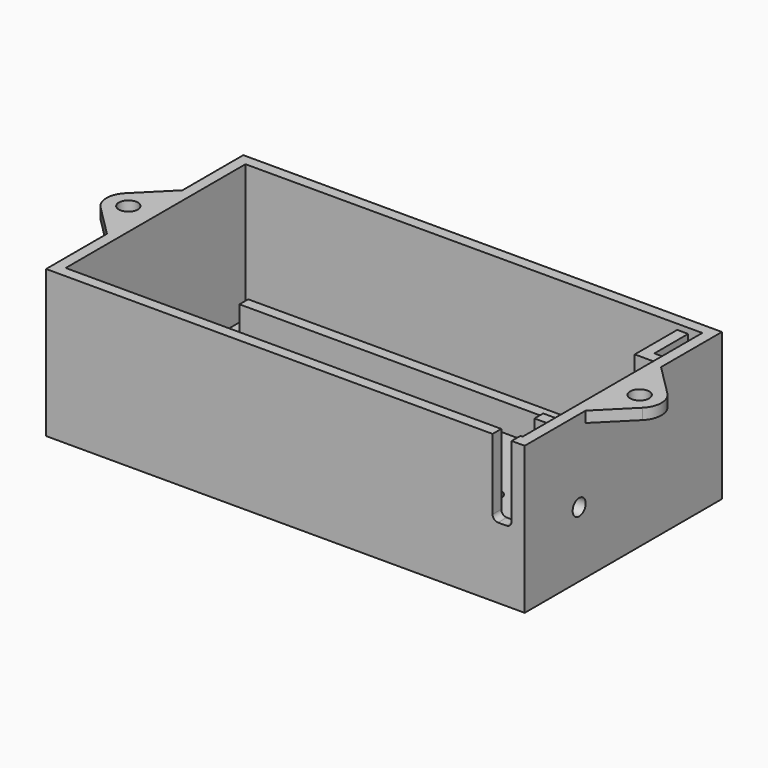
from build123d import *

# Parameters (mm, degrees)
SKETCH006_W          = 87.85
SKETCH006_H          = 45.25
PAD_DEPTH            = 2
SKETCH007_W          = 74.25
SKETCH007_H          = 2
PAD001_DEPTH         = 5
SKETCH008_W          = 87.85
SKETCH008_H          = 45.25
SKETCH008_W_2        = 2.6
SKETCH008_H_2        = 7.75
PAD002_DEPTH         = 25
SKETCH009_W          = 4.6
SKETCH009_H          = 2
PAD003_DEPTH         = 6
SKETCH010_W          = 3.4
SKETCH010_H          = 2
PAD004_DEPTH         = 18
SKETCH011_W          = 3.4
SKETCH011_H          = 2
PAD005_DEPTH         = 1.5
SKETCH013_W          = 4.6
SKETCH013_H          = 9.75
POCKET001_DEPTH      = 1
SKETCH016_R          = 2
POCKET003_DEPTH      = 2
POCKET003_DEPTH_BACK = 5
POCKET004_DEPTH      = 2
SKETCH044_R          = 1.75
PAD031_DEPTH         = 2
SKETCH070_R          = 1.95
POCKET_DEPTH         = 2
SKETCH086_R          = 1.5
POCKET019_DEPTH      = 2


with BuildPart() as part:
    # Sketch006 → Pad (new body)
    with BuildSketch(Plane.XY):
        with Locations((2.3, 0)):
            Rectangle(SKETCH006_W, SKETCH006_H)
    extrude(amount=PAD_DEPTH)

    # Sketch007 (on Face6 of Pad) → Pad001 (join)
    with BuildSketch(Plane.XY.offset(2)):
        with Locations((0, 17.125)):
            Rectangle(SKETCH007_W, SKETCH007_H)
        with Locations((0, -17.125)):
            Rectangle(SKETCH007_W, SKETCH007_H)
    extrude(amount=PAD001_DEPTH)

    # Sketch008 (on Face5 of Pad001) → Pad002 (join)
    with BuildSketch(Plane.XY.offset(2)):
        with Locations((2.3, 0)):
            Rectangle(SKETCH008_W, SKETCH008_H)
        Polygon((-39.625, 20.625), (39.625, 20.625), (39.625, 10.875), (44.225, 10.875), (44.225, -20.625), (-39.625, -20.625), align=None, mode=Mode.SUBTRACT)
        with Locations((42.925, 16.75)):
            Rectangle(SKETCH008_W_2, SKETCH008_H_2, mode=Mode.SUBTRACT)
    extrude(amount=PAD002_DEPTH)

    # Sketch009 (on Face6 of Pad) → Pad003 (join)
    with BuildSketch(Plane.XY.offset(2)):
        with Locations((41.925, 2.375)):
            Rectangle(SKETCH009_W, SKETCH009_H)
        with Locations((41.925, -12.625)):
            Rectangle(SKETCH009_W, SKETCH009_H)
    extrude(amount=PAD003_DEPTH)

    # Sketch010 (on Face26 of Pad003) → Pad004 (join)
    with BuildSketch(Plane.XY.offset(8)):
        with Locations((42.525, -12.625)):
            Rectangle(SKETCH010_W, SKETCH010_H)
    extrude(amount=PAD004_DEPTH)

    # Sketch011 (on Face23 of Pad003) → Pad005 (join)
    with BuildSketch(Plane.XY.offset(8)):
        with Locations((42.525, 2.375)):
            Rectangle(SKETCH011_W, SKETCH011_H)
    extrude(amount=PAD005_DEPTH)

    # Sketch013 (on Face9 of Pad002) → Pocket001 (cut)
    with BuildSketch(Plane.XY.offset(27)):
        with Locations((41.925, 15.75)):
            Rectangle(SKETCH013_W, SKETCH013_H)
    extrude(amount=-POCKET001_DEPTH, mode=Mode.SUBTRACT)

    # Sketch016 → Pocket003 (cut, two sides)
    with BuildSketch(Plane(origin=(-40.625, 0, 0), x_dir=(0, -1, 0), z_dir=(-1, 0, 0))) as pocket003_sk:
        with Locations((0, 6.5)):
            Circle(SKETCH016_R)
    extrude(amount=-POCKET003_DEPTH, mode=Mode.SUBTRACT)
    extrude(pocket003_sk.sketch, amount=POCKET003_DEPTH_BACK, mode=Mode.SUBTRACT)

    # Sketch017 (on Face5 of Pocket003) → Pocket004 (cut)
    with BuildSketch(Plane.XZ.offset(22.625)):
        with BuildLine():
            Line((40.325, 14), (40.325, 29))
            Line((40.325, 29), (43.825, 29))
            Line((43.825, 14), (43.825, 29))
            ThreePointArc((42.825, 13), (43.532107, 13.292893), (43.825, 14))
            Line((41.325, 13), (42.825, 13))
            ThreePointArc((40.325, 14), (40.617893, 13.292893), (41.325, 13))
        make_face()
    extrude(amount=-POCKET004_DEPTH, mode=Mode.SUBTRACT)

    # Sketch044 (on Face9 of Pad002) → Pad031 (join)
    with BuildSketch(Plane.XY.offset(27)):
        with BuildLine():
            ThreePointArc((-47.453427, 2.828427), (-48.625, 0), (-47.453427, -2.828427))
            Line((-47.453427, -2.828427), (-41.625, -8.656854))
            Line((-41.625, 8.656854), (-41.625, -8.656854))
            Line((-47.453427, 2.828427), (-41.625, 8.656854))
        make_face()
        with Locations((-44.625, 0)):
            Circle(SKETCH044_R, mode=Mode.SUBTRACT)
        with BuildLine():
            ThreePointArc((52.053427, -2.828427), (53.225, 0), (52.053427, 2.828427))
            Line((52.053427, 2.828427), (46.225, 8.656854))
            Line((46.225, -8.656854), (46.225, 8.656854))
            Line((52.053427, -2.828427), (46.225, -8.656854))
        make_face()
        with Locations((49.225, 0)):
            Circle(SKETCH044_R, mode=Mode.SUBTRACT)
    extrude(amount=-PAD031_DEPTH)

    # Sketch070 (on Face4 of Pad031) → Pocket (cut)
    with BuildSketch(Plane(origin=(0, 0, 0), x_dir=(1, 0, 0), z_dir=(0, 0, -1))):
        with Locations((-17.225, 0)):
            Circle(SKETCH070_R)
        with Locations((21.825, 0)):
            Circle(SKETCH070_R)
    extrude(amount=-POCKET_DEPTH, mode=Mode.SUBTRACT)

    # Sketch086 (on Face14 of Pad002) → Pocket019 (cut)
    with BuildSketch(Plane(origin=(44.225, 0, 0), x_dir=(0, -1, 0), z_dir=(-1, 0, 0))):
        with Locations((10.125, 12)):
            Circle(SKETCH086_R)
    extrude(amount=-POCKET019_DEPTH, mode=Mode.SUBTRACT)


with BuildPart() as part_1:
    # Body placement: moved
    add(part.part.moved(Location((0, 0, -2))))


solid = part_1.part
